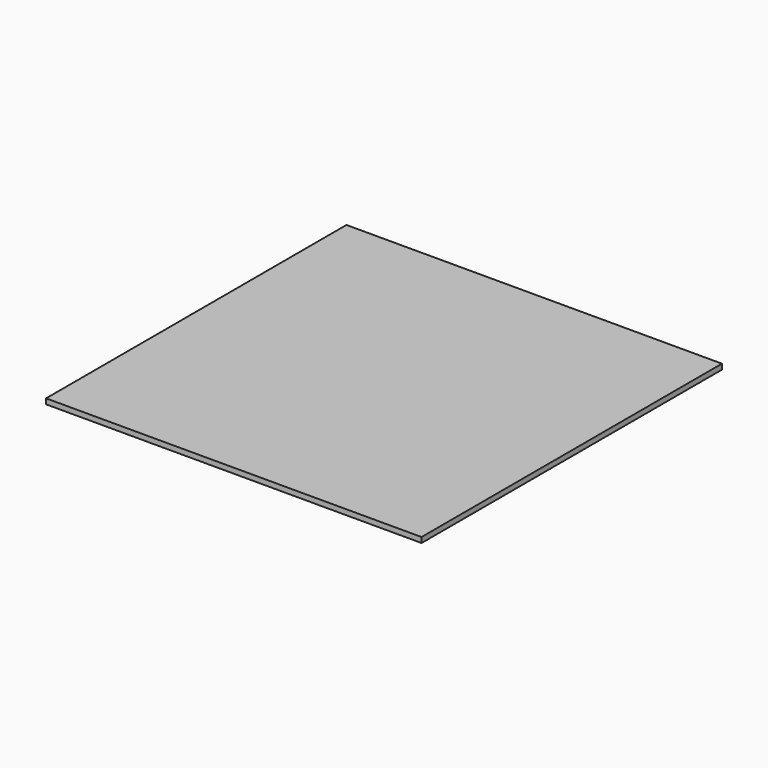
from build123d import *

# Parameters (mm, degrees)
SKETCH_W  = 450
SKETCH_H  = 450
PAD_DEPTH = 6.35


with BuildPart() as part:
    # Sketch → Pad (new body)
    with BuildSketch(Plane.XY):
        with Locations((225, 225)):
            Rectangle(SKETCH_W, SKETCH_H)
    extrude(amount=PAD_DEPTH)


solid = part.part
